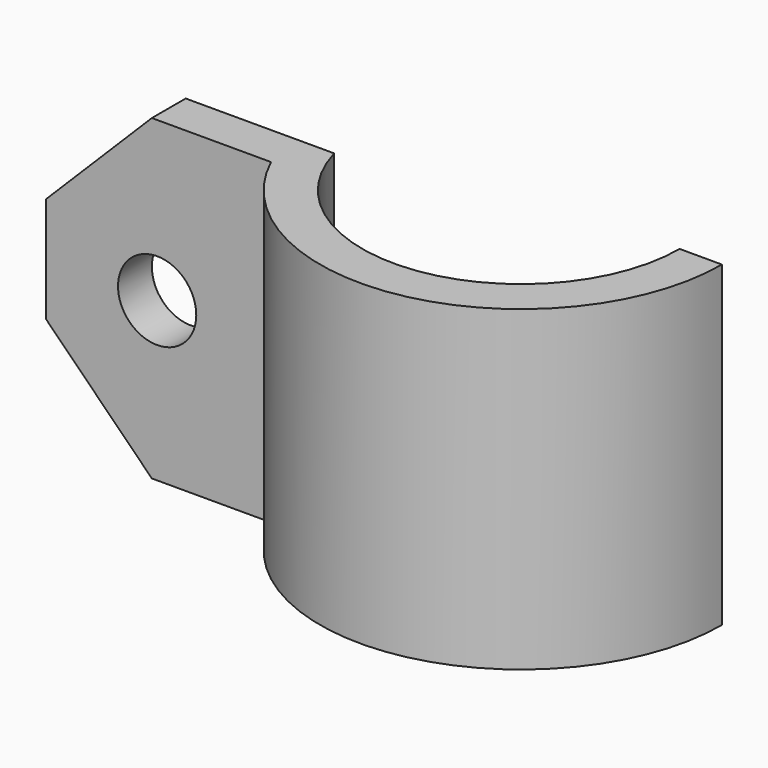
from build123d import *

# Parameters (mm, degrees)
SKETCH016_R       = 1.85
EXTRUDE013_DEPTH  = 12
CYLINDER007_R     = 5
CYLINDER007_DEPTH = 1
EXTRUDE012_DEPTH  = 15


with BuildPart() as extrude013:
    # Sketch016 → Extrude013 (new body)
    with BuildSketch(Plane.XZ):
        Polygon((11.75, 36), (11.75, 19), (-13.25, 19), (-19.25, 25), (-19.25, 30), (-13.25, 36), align=None)
        with Locations((-14, 27.481564)):
            Circle(SKETCH016_R, mode=Mode.SUBTRACT)
    extrude(amount=-EXTRUDE013_DEPTH)


with BuildPart() as unprintable:
    # Cylinder007 → Cylinder007 (new body)
    with BuildSketch(Plane(origin=(-14, 18, 27.5), x_dir=(1, 0, 0), z_dir=(0, -1, 0))):
        Circle(CYLINDER007_R)
    extrude(amount=CYLINDER007_DEPTH)


with BuildPart() as body007:
    # Sketch015 → Extrude012 (new body)
    with BuildSketch(Plane.XY.offset(50)):
        with BuildLine():
            ThreePointArc((7.5, 0), (1.009178, 7.431794), (-7.228416, 2))
            Line((-7.228416, 2), (-21.228416, 2))
            Line((-21.228416, 4), (-21.228416, 2))
            Line((-8.616844, 4), (-21.228416, 4))
            ThreePointArc((9.5, 0), (2.048168, 9.276584), (-8.616844, 4))
            Line((7.5, 0), (9.5, 0))
        make_face()
    extrude(amount=EXTRUDE012_DEPTH)


with BuildPart() as body007_1:
    # Extrude012 placement: moved
    add(body007.part.moved(Location((0, 0, -30))))

    # Fusion016: union unprintable
    add(unprintable.part)

    # Common001: intersect Extrude013
    add(extrude013.part, mode=Mode.INTERSECT)


with BuildPart() as body007_2:
    # Common001 placement: moved
    add(body007_1.part.moved(Location((1.5, 0, 0))))


with BuildPart() as body007_3:
    # Clone007 placement: moved
    add(body007_2.part.moved(Location((-1.5, 0, 0))))


with BuildPart() as part_mirroring008:
    # Part__Mirroring008: instance of Body007
    add(body007_3.part.mirror(Plane(origin=(0, 0, 0), x_dir=(1, 0, 0), z_dir=(0, 1, 0))))


with BuildPart() as part_mirroring008_1:
    # Part__Mirroring008 placement: moved
    add(part_mirroring008.part.moved(Location((1.5, 0, 0))))


solid = part_mirroring008_1.part
